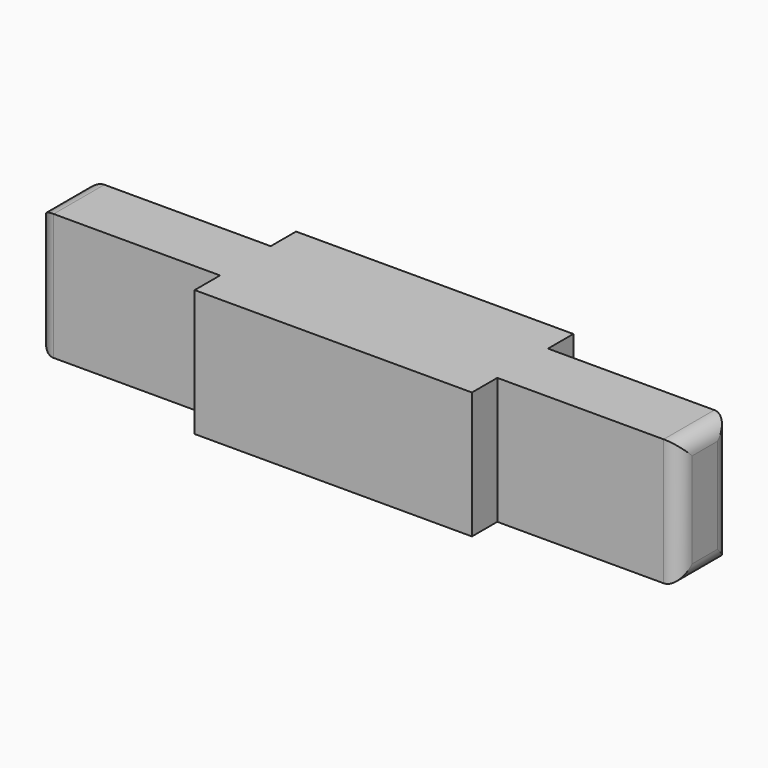
from build123d import *

# Parameters (mm, degrees)
F0_W     = 11.5
F0_H     = 4
F0_W_2   = 17.5
F0_H_2   = 2
F1_DEPTH = 8
F2_R     = 1


with BuildPart() as f1:
    # F0 (on Top) → F1 (new body)
    with BuildSketch(Plane.XY):
        with Locations((14.5, 0)):
            Rectangle(F0_W, F0_H)
        Rectangle(F0_W_2, F0_H)
        with Locations((0, 3)):
            Rectangle(F0_W_2, F0_H_2)
        with Locations((-14.5, 0)):
            Rectangle(F0_W, F0_H)
        with Locations((0, -3)):
            Rectangle(F0_W_2, F0_H_2)
    extrude(amount=F1_DEPTH)

    # F2
    f2_edges = [f1.edges().sort_by_distance(p)[0] for p in [
        (-20.25, -2, 4),
        (-20.25, 0, 8),
        (-20.25, 0, 0),
        (-20.25, 2, 4),
        (20.25, 0, 8),
        (20.25, 2, 4),
        (20.25, 0, 0),
        (20.25, -2, 4),
    ]]
    fillet(f2_edges, radius=F2_R)


solid = f1.part
